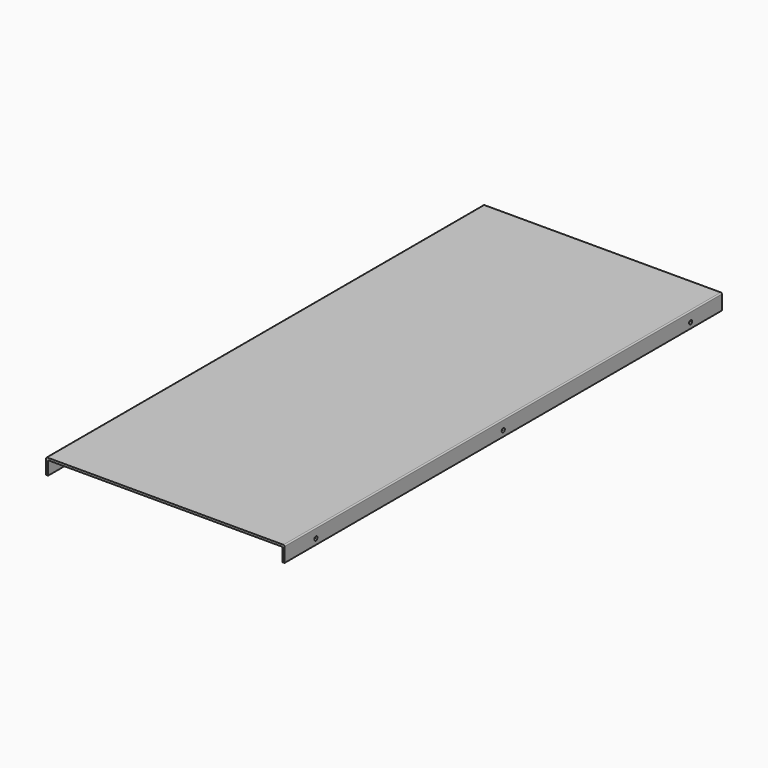
from build123d import *

# Parameters (mm, degrees)
F1_DEPTH = 1400
F3_R     = 3
F4_D     = 10
F4_DEPTH = 3000


with BuildPart() as f1:
    # F0 (on Front) → F1 (new body)
    with BuildSketch(Plane.XZ):
        Polygon((305.5, 0), (0, 0), (-305.5, 0), (-305.5, -40), (-300, -40), (-300, -5.5), (0, -5.5), (300, -5.5), (300, -14.070651), (300, -40), (305.5, -40), align=None)
    extrude(amount=F1_DEPTH)

    # F3
    f3_edges = [f1.edges().sort_by_distance(p)[0] for p in [
        (-305.5, -700, 0),
        (305.5, -700, 0),
    ]]
    fillet(f3_edges, radius=F3_R)

    # F4
    with Locations(Plane(origin=(-305.5, 0, 0), x_dir=(0, -1, 0), z_dir=(-1, 0, 0))):
        with Locations((100, -25.5), (700, -25.5), (1300, -25.5)):
            Hole(F4_D / 2, depth=F4_DEPTH)


solid = f1.part
